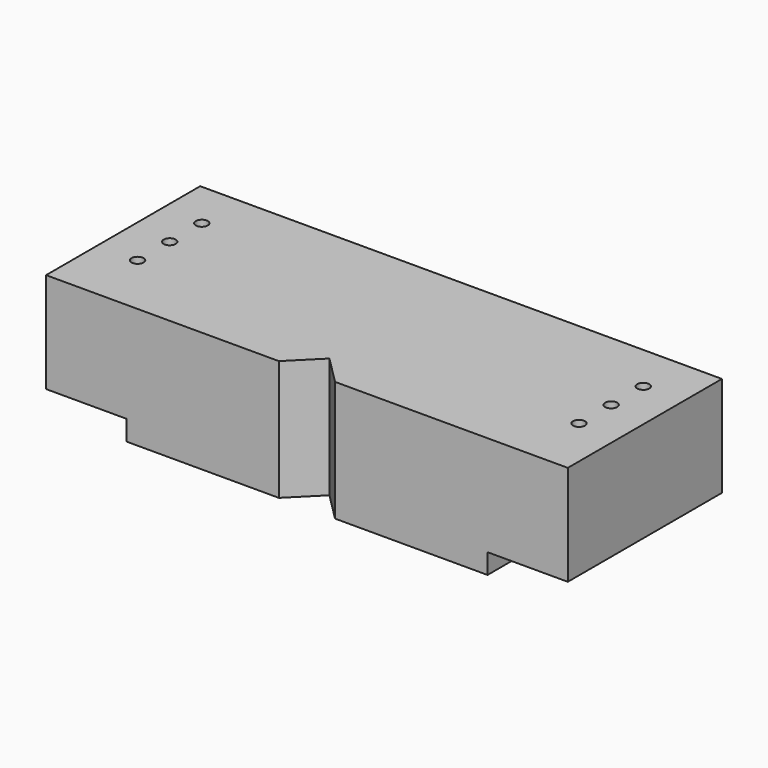
from build123d import *

# Parameters (mm, degrees)
F0_W     = 130
F0_H     = 48
F1_DEPTH = 25
F3_DEPTH = 25.001
F4_R     = 1.5
F5_DEPTH = 25.001
F6_W     = 90
F6_H     = 48
F7_DEPTH = 5
F8_DEPTH = 25


with BuildPart() as f1:
    # F0 (on Top) → F1 (new body)
    with BuildSketch(Plane.XY):
        Rectangle(F0_W, F0_H)
    extrude(amount=F1_DEPTH)

    # F2 (on face) → F3 (cut, through all)
    with BuildSketch(Plane.XY.offset(25)):
        Polygon((7, -24), (0, -17), (-7, -24), align=None)
    extrude(amount=-F3_DEPTH, mode=Mode.SUBTRACT)

    # F4 (on face) → F5 (cut, through all)
    with BuildSketch(Plane.XY.offset(25)):
        with Locations((-55, 12)):
            Circle(F4_R)
        with Locations((-55, 2)):
            Circle(F4_R)
        with Locations((-55, -8)):
            Circle(F4_R)
        with Locations((55, 12)):
            Circle(F4_R)
        with Locations((55, 2)):
            Circle(F4_R)
        with Locations((55, -8)):
            Circle(F4_R)
    extrude(amount=-F5_DEPTH, mode=Mode.SUBTRACT)

    # F6 (on face) → F7 (join)
    with BuildSketch(Plane(origin=(0, 0, 0), x_dir=(1, 0, 0), z_dir=(0, 0, -1))):
        Rectangle(F6_W, F6_H)
    extrude(amount=F7_DEPTH)

    # F8 (cut): a face of the model
    f8_faces = [f1.faces().sort_by_distance(p)[0] for p in [
        (0, -21.6666666667, 0),
    ]]
    extrude(f8_faces, amount=-F8_DEPTH, mode=Mode.SUBTRACT)


solid = f1.part
